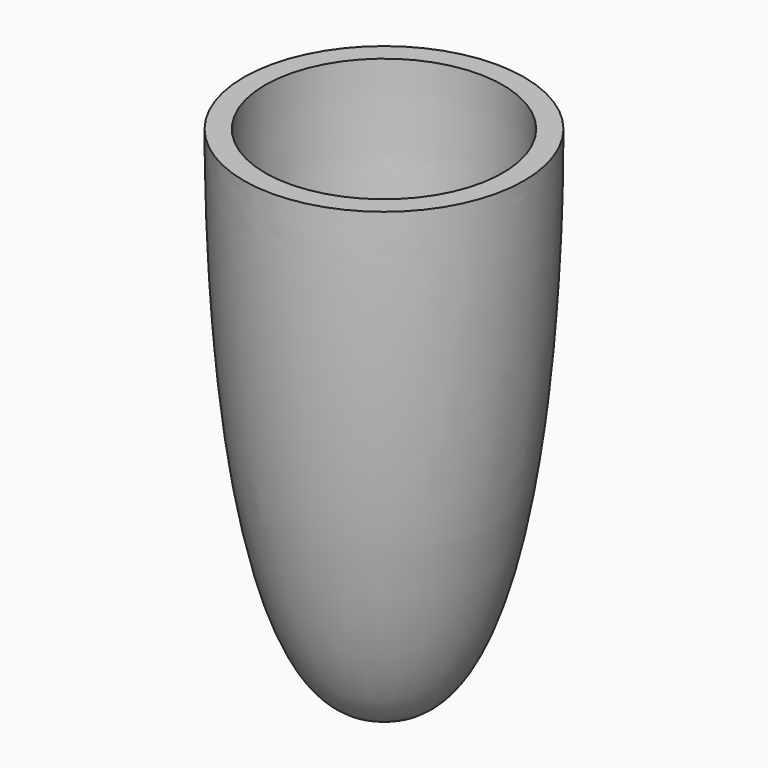
from build123d import *


with BuildPart() as f1:
    # F0 (on Front) → F1 (revolve)
    with BuildSketch(Plane.XZ):
        with BuildLine():
            add(Edge.make_bspline(
                [(-1.5, -52.80147), (-14.39338, -52.538924), (-16.5, -12.106971), (-16.5, 7.19853)],
                knots=[0, 0, 0, 0, 61.846584, 61.846584, 61.846584, 61.846584], degree=3))
            Line((-1.5, -52.80147), (-1.5, -50.30147))
            add(Edge.make_bspline(
                [(-14, 7.19853), (-14, -12.106971), (-10.703076, -50.232481), (-1.5, -50.30147)],
                knots=[0, 0, 0, 0, 58.843011, 58.843011, 58.843011, 58.843011], degree=3))
            Line((-14, 7.19853), (-16.5, 7.19853))
        make_face()
    revolve(axis=Axis((0, 0, -16.508503), (0, 0, -1)))


solid = f1.part
